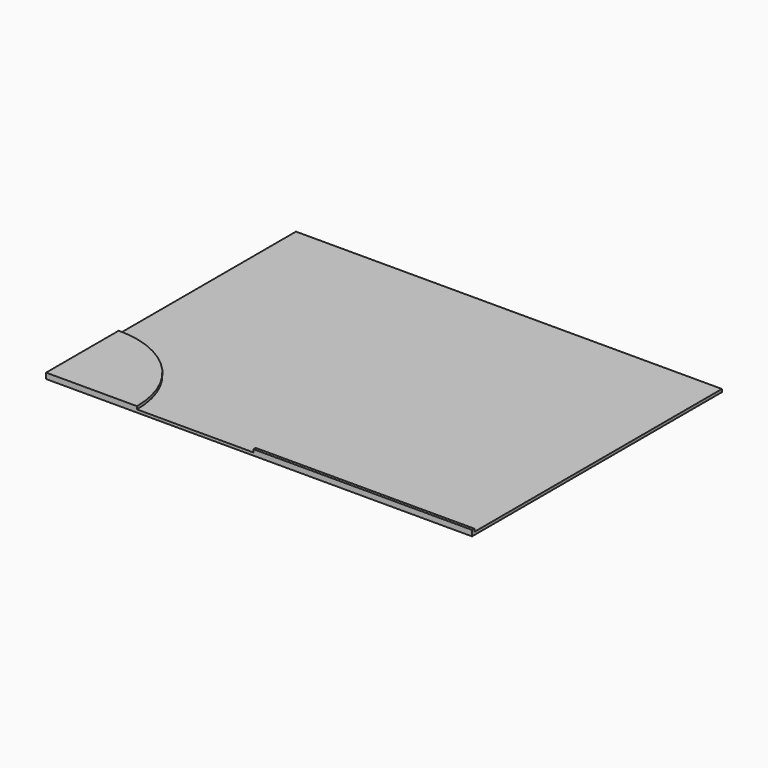
from build123d import *

# Parameters (mm, degrees)
F0_W     = 3810
F0_H     = 2794
F1_DEPTH = 25.4
F2_W     = 1955.8
F2_H     = 25.4
F3_DEPTH = 25.4


with BuildPart() as f1:
    # F0 (on Top) → F1 (new body)
    with BuildSketch(Plane.XY):
        with Locations((1905, 1397)):
            Rectangle(F0_W, F0_H)
    extrude(amount=F1_DEPTH)

    # F2 (on face) → F3 (join)
    with BuildSketch(Plane.XY.offset(25.4)):
        with BuildLine():
            Line((0, 0), (812.8, 0))
            ThreePointArc((812.8, 0), (574.736392, 574.736392), (0, 812.8))
            Line((0, 812.8), (0, 0))
        make_face()
        with Locations((2832.1, 12.7)):
            Rectangle(F2_W, F2_H)
    extrude(amount=F3_DEPTH)


solid = f1.part
